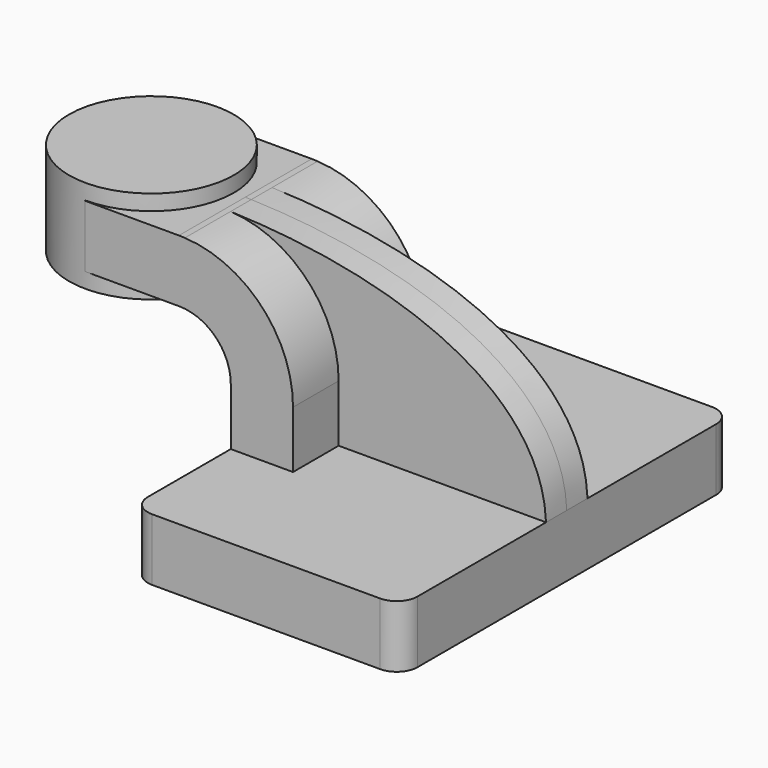
from build123d import *

# Parameters (mm, degrees)
F1_DEPTH = 63.5
F2_DEPTH = 25.4
F3_DEPTH = 7.9375
F0_W     = 25.5843524362
F0_H     = 19.05
F4_DEPTH = 25.4
F6_R     = 6.35


with BuildPart() as f1:
    # F0 (on Front) → F1 (new body, symmetric)
    with BuildSketch(Plane.XZ):
        Polygon((41.275, -9.525), (41.275, 9.525), (-22.225, 9.525), (-41.275, 9.525), (-41.275, -9.525), align=None)
    extrude(amount=F1_DEPTH, both=True)

    # F0 (on Front) → F2 (join, symmetric)
    with BuildSketch(Plane.XZ):
        with BuildLine():
            Line((-41.275, 9.525), (-22.225, 9.525))
            Line((-22.225, 9.525), (-22.225, 27.0002))
            ThreePointArc((-22.225, 27.0002), (-31.815718959, 51.0403711544), (-55.3204805517, 61.8772480917))
            add(Edge.make_bspline(
                [(-55.3204805517, 61.8772480917), (-55.929805309, 61.8954627703), (-56.5396707352, 61.9114442844), (-57.15, 61.9252)],
                knots=[110.1454497183, 110.1454497183, 110.1454497183, 110.1454497183, 111.5045361635, 111.5045361635, 111.5045361635, 111.5045361635], degree=3))
            Line((-57.15, 61.9252), (-60.325, 61.9252))
            Line((-60.325, 61.9252), (-60.325, 42.8752))
            Line((-60.325, 42.8752), (-57.15, 42.8752))
            ThreePointArc((-57.15, 42.8752), (-45.9246798487, 38.2255201513), (-41.275, 27.0002))
            Line((-41.275, 27.0002), (-41.275, 9.525))
        make_face()
    extrude(amount=F2_DEPTH, both=True)

    # F0 (on Front) → F3 (join, symmetric)
    with BuildSketch(Plane.XZ):
        with BuildLine():
            Line((-22.225, 9.525), (41.275, 9.525))
            add(Edge.make_bspline(
                [(41.275, 9.525), (39.8922745283, 44.2572563943), (-5.9385227977, 60.4010623985), (-55.3204805517, 61.8772480917)],
                knots=[0, 0, 0, 0, 110.1454497183, 110.1454497183, 110.1454497183, 110.1454497183], degree=3))
            ThreePointArc((-55.3204805517, 61.8772480917), (-31.815718959, 51.0403711544), (-22.225, 27.0002))
            Line((-22.225, 27.0002), (-22.225, 9.525))
        make_face()
    extrude(amount=F3_DEPTH, both=True)

    # F0 (on Front) → F4 (join, symmetric)
    with BuildSketch(Plane.XZ):
        with Locations((-73.1171762181, 52.4002)):
            Rectangle(F0_W, F0_H)
    extrude(amount=F4_DEPTH, both=True)

    # F0 (on Front) → F5 (revolve)
    with BuildSketch(Plane.XZ):
        Polygon((-85.9093524362, 42.8752), (-85.9093524362, 61.9252), (-85.9093524362, 66.675), (-111.125, 66.675), (-111.125, 38.1), (-85.9093524362, 38.1), align=None)
    revolve(axis=Axis((-85.9093524362, 0, 52.3875), (0, 0, -1)))

    # F6
    f6_edges = [f1.edges().sort_by_distance(p)[0] for p in [
        (41.275, 63.5, 0),
        (-41.275, 63.5, 0),
        (-41.275, -63.5, 0),
        (41.275, -63.5, 0),
    ]]
    fillet(f6_edges, radius=F6_R)


solid = f1.part
